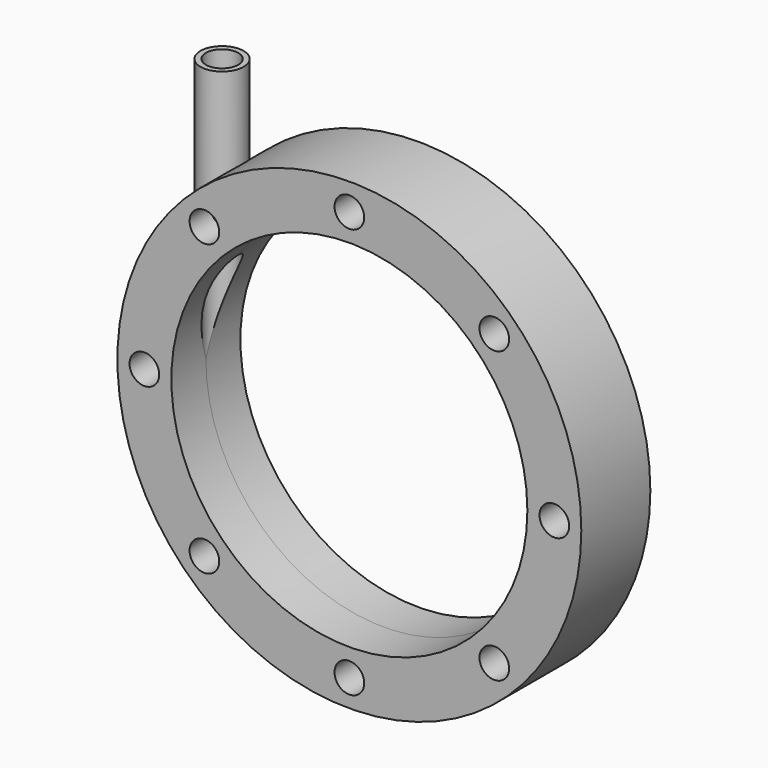
from build123d import *

# Parameters (mm, degrees)
SKETCH001_R           = 43
PAD_DEPTH             = 8
SKETCH002_W           = 4
SKETCH002_H           = 50
SKETCH003_R           = 33
POCKET_DEPTH          = 8.001
POCKET_DEPTH_BACK     = 8.001
SKETCH004_W           = 3
SKETCH004_H           = 50
SKETCH013_R           = 2.75
POCKET005_DEPTH       = 271.35174
POLARPATTERN003_COUNT = 8


with BuildPart() as part:
    # Sketch001 → Pad (new body, symmetric)
    with BuildSketch(Plane.XZ):
        Circle(SKETCH001_R)
    extrude(amount=PAD_DEPTH, both=True)

    # Sketch002 → Revolution (revolve)
    with BuildSketch(Plane.XZ):
        with Locations((-28, 25)):
            Rectangle(SKETCH002_W, SKETCH002_H)
    revolve(axis=Axis((-30, 0, 40.402922), (0, 0, 1)))

    # Sketch003 → Pocket (cut, two sides)
    with BuildSketch(Plane.XZ) as pocket_sk:
        Circle(SKETCH003_R)
    extrude(amount=-POCKET_DEPTH, mode=Mode.SUBTRACT)
    extrude(pocket_sk.sketch, amount=POCKET_DEPTH_BACK, mode=Mode.SUBTRACT)

    # Sketch004 → Groove (revolve, cut)
    with BuildSketch(Plane.XZ):
        with Locations((-31.5, 25)):
            Rectangle(SKETCH004_W, SKETCH004_H)
    revolve(axis=Axis((-30, 0, 22.276785), (0, 0, 1)), mode=Mode.SUBTRACT)

    # Sketch013 (on Face4 of Groove) → Pocket005 (cut, through all)
    with BuildSketch(Plane.XZ.offset(8)):
        with Locations((0, -38)):
            Circle(SKETCH013_R)
    pocket005 = extrude(amount=-POCKET005_DEPTH, mode=Mode.SUBTRACT)

    # PolarPattern003: Pocket005 ×8 about axis
    polarpattern003_axis = Axis((0, -8, 0), (0, -1, 0))
    for i in range(1, POLARPATTERN003_COUNT):
        add(pocket005.rotate(polarpattern003_axis, i * 360 / POLARPATTERN003_COUNT), mode=Mode.SUBTRACT)


solid = part.part
